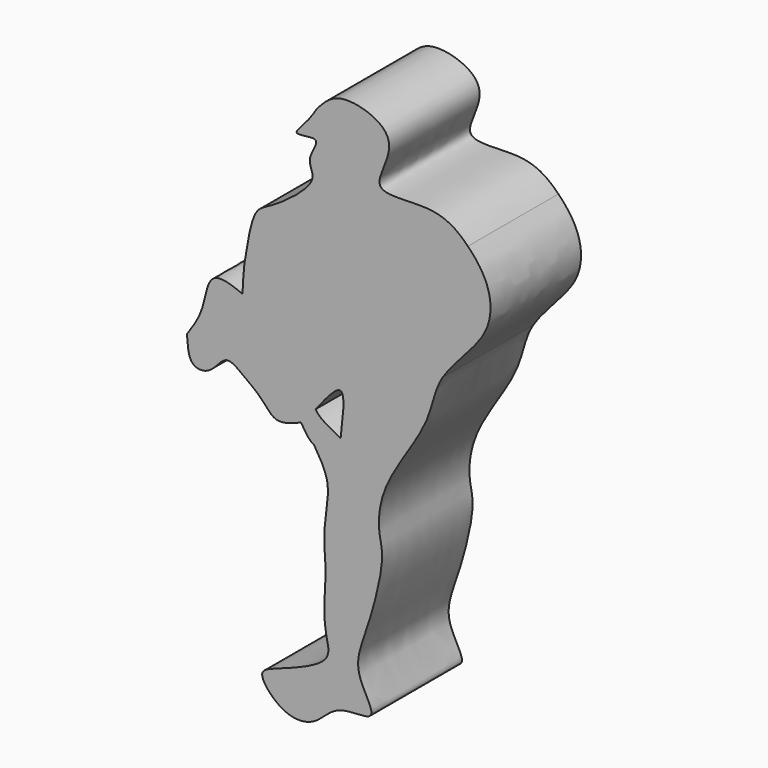
from build123d import *

# Parameters (mm, degrees)
F1_DEPTH = 25.4


with BuildPart() as f1:
    # F0 (on Front) → F1 (new body)
    with BuildSketch(Plane.XZ):
        with BuildLine():
            add(Edge.make_bspline(
                [(-21.5943008661, 18.1868094951), (-20.8921595485, 22.6245804916), (-19.7484215648, 29.8533920204), (-15.6107686745, 31.1393382396), (-4.0598308883, 39.4363882202), (-8.2724920031, 43.2125513241), (-3.3359732824, 49.1335900885), (-11.9154656231, 46.6039117455), (-7.2236898338, 50.7224706873), (-5.3444860453, 54.0504180989), (-5.3182533011, 54.0314875543)],
                knots=[0, 0, 0, 0, 0.1661583988, 0.2706601466, 0.4433434201, 0.5411518854, 0.64403377, 0.74461517, 0.8420787833, 0.9395424351, 0.9395424351, 0.9395424351, 0.9395424351], degree=3))
            add(Edge.make_bspline(
                [(-21.5943008661, 18.1868094951), (-21.7887766584, 16.0879769924), (-21.9832524506, 13.9891444898), (-22.0246174233, 12.0014088191)],
                knots=[0, 0, 0, 0, 0.0442586996, 0.0442586996, 0.0442586996, 0.0442586996], degree=3))
            add(Edge.make_bspline(
                [(-22.0247702216, 11.9940330325), (-22.0216686956, 11.9949592514), (-22.0230287683, 11.9981824964), (-22.0246174233, 12.0014088191)],
                knots=[0.9892202818, 0.9892202818, 0.9892202818, 0.9892202818, 1, 1, 1, 1], degree=3))
            add(Edge.make_bspline(
                [(-22.0247702216, 11.9940330325), (-22.0637401112, 10.104333795), (-21.7952577868, 5.282481514), (-18.0209239861, -0.465713744), (-11.6877187204, -4.4341367404), (-9.4351428248, -8.2359583026), (-8.8920048898, -9.140739238)],
                knots=[0.0443134462, 0.0443134462, 0.0443134462, 0.0443134462, 0.0863950998, 0.1577263962, 0.2361776325, 0.2625376278, 0.2625376278, 0.2625376278, 0.2625376278], degree=3))
            add(Edge.make_bspline(
                [(-8.8920048898, -9.140739238), (-7.9696887981, -10.6771703404), (-7.1148042536, -12.0654518015), (-5.9723341838, -12.6078510657)],
                knots=[0.2625376278, 0.2625376278, 0.2625376278, 0.2625376278, 0.3073001942, 0.3073001942, 0.3073001942, 0.3073001942], degree=3))
            add(Edge.make_bspline(
                [(-5.9723341838, -12.6078510657), (-4.6518660195, -14.7187344107), (-1.93390216, -19.0636363163), (-4.0218657937, -27.3670793967), (-3.5761120297, -33.4665675677), (-3.3449593466, -36.6295538843)],
                knots=[0, 0, 0, 0, 0.3126667483, 0.6435724426, 1, 1, 1, 1], degree=3))
            add(Edge.make_bspline(
                [(-3.3449593466, -36.6295538843), (-3.6234258022, -40.9974244261), (-4.0882821233, -48.288903129), (-1.0768782996, -54.995703646), (-14.4974787779, -59.4752137516), (-19.1993278846, -61.4589357888), (-12.9759338882, -68.5467833045), (-5.3375435137, -68.2208102672), (-1.1886213211, -61.7447349016), (9.8303718562, -63.6304540393), (2.2692705541, -54.1297463482), (6.0671064591, -45.5521296286), (10.2170723661, -29.9371614698), (8.2088184119, -25.0252247527), (9.0497087275, -14.5652093635), (20.5430611209, -0.3484723634), (20.8909463411, 6.8469782655), (22.8825435042, 10.09988226)],
                knots=[0, 0, 0, 0, 0.048510445, 0.0809806228, 0.1308881027, 0.1577450335, 0.1954004431, 0.2319819098, 0.2697152438, 0.3065428956, 0.3446455621, 0.388775104, 0.4440385777, 0.4756616114, 0.5190921943, 0.5782534756, 0.6242919527, 0.6242919527, 0.6242919527, 0.6242919527], degree=3))
            add(Edge.make_bspline(
                [(22.8825435042, 10.09988226), (20.2136983186, 9.7083980182), (15.4456200538, 9.0089840866), (14.7790673235, 14.5294635813), (18.5726736776, 27.6756548604), (21.9739509227, 32.1225541089), (27.396026687, 31.0575572705), (27.616860345, 29.0371589363)],
                knots=[0, 0, 0, 0, 0.1106821217, 0.1977413384, 0.3579995192, 0.4574979031, 0.5557643927, 0.5557643927, 0.5557643927, 0.5557643927], degree=3))
            add(Edge.make_bspline(
                [(27.616860345, 29.0371589363), (27.9324837029, 31.9829583168), (28.2481070608, 34.9287576973), (28.5637304187, 37.8745570779)],
                knots=[0, 0, 0, 0, 8.8879788957, 8.8879788957, 8.8879788957, 8.8879788957], degree=3))
            add(Edge.make_bspline(
                [(28.5637304187, 37.8745570779), (26.5077800503, 39.9683277592), (21.5319577998, 43.885794708), (5.6500360713, 40.6925232943), (11.5396034596, 50.0824768696), (10.4793174613, 56.1748022883), (-0.6136221709, 59.3047533259), (-3.8566434455, 55.6697578054), (-5.3182533011, 54.0314875543)],
                knots=[0.761111039, 0.761111039, 0.761111039, 0.761111039, 0.803905681, 0.8512385476, 0.8878280671, 0.9207386298, 0.9642773852, 1, 1, 1, 1], degree=3))
        make_face()
        with BuildLine():
            add(Edge.make_bspline(
                [(0, -9.3740245191), (0.5354356598, -4.9132551857), (1.5610688586, 3.631400062), (-3.3071347043, -2.5310765364), (-5.6338743307, -5.4764091037)],
                knots=[0, 0, 0, 0, 0.5220537522, 1, 1, 1, 1], degree=3))
            add(Edge.make_bspline(
                [(0, -9.3740245191), (-2.2385561501, -8.1837738071), (-4.4968651533, -7.1944959414), (-5.6338743307, -5.4764091037)],
                knots=[0.637456788, 0.637456788, 0.637456788, 0.637456788, 0.6957872773, 0.6957872773, 0.6957872773, 0.6957872773], degree=3))
        make_face(mode=Mode.SUBTRACT)
        with BuildLine():
            add(Edge.make_bspline(
                [(-22.0247702216, 11.9940330325), (-22.0216686956, 11.9949592514), (-22.0230287683, 11.9981824964), (-22.0246174233, 12.0014088191)],
                knots=[0.9892202818, 0.9892202818, 0.9892202818, 0.9892202818, 1, 1, 1, 1], degree=3))
            add(Edge.make_bspline(
                [(-22.0246174233, 12.0014088191), (-22.0246685904, 11.9989500535), (-22.0247195233, 11.9964914579), (-22.0247702216, 11.9940330325)],
                knots=[0.0442586996, 0.0442586996, 0.0442586996, 0.0442586996, 0.0443134462, 0.0443134462, 0.0443134462, 0.0443134462], degree=3))
        make_face()
        with BuildLine():
            add(Edge.make_bspline(
                [(22.8825435042, 10.09988226), (25.2529901942, 13.9715665791), (34.0849453625, 21.1046777211), (33.8615861626, 31.5117699449), (30.4644511068, 35.9388716103), (28.5637304187, 37.8745570779)],
                knots=[0.6242919527, 0.6242919527, 0.6242919527, 0.6242919527, 0.6790880517, 0.7215475054, 0.761111039, 0.761111039, 0.761111039, 0.761111039], degree=3))
            add(Edge.make_bspline(
                [(27.616860345, 29.0371589363), (27.9324837029, 31.9829583168), (28.2481070608, 34.9287576973), (28.5637304187, 37.8745570779)],
                knots=[0, 0, 0, 0, 8.8879788957, 8.8879788957, 8.8879788957, 8.8879788957], degree=3))
            add(Edge.make_bspline(
                [(22.8825435042, 10.09988226), (20.2136983186, 9.7083980182), (15.4456200538, 9.0089840866), (14.7790673235, 14.5294635813), (18.5726736776, 27.6756548604), (21.9739509227, 32.1225541089), (27.396026687, 31.0575572705), (27.616860345, 29.0371589363)],
                knots=[0, 0, 0, 0, 0.1106821217, 0.1977413384, 0.3579995192, 0.4574979031, 0.5557643927, 0.5557643927, 0.5557643927, 0.5557643927], degree=3))
        make_face()
        with BuildLine():
            add(Edge.make_bspline(
                [(-22.0247702216, 11.9940330325), (-22.0637401112, 10.104333795), (-21.7952577868, 5.282481514), (-18.0209239861, -0.465713744), (-11.6877187204, -4.4341367404), (-9.4351428248, -8.2359583026), (-8.8920048898, -9.140739238)],
                knots=[0.0443134462, 0.0443134462, 0.0443134462, 0.0443134462, 0.0863950998, 0.1577263962, 0.2361776325, 0.2625376278, 0.2625376278, 0.2625376278, 0.2625376278], degree=3))
            add(Edge.make_bspline(
                [(-34.4981066883, 0), (-33.1090538256, 1.9973948831), (-30.357043124, 5.955256703), (-29.799498727, 15.7751803138), (-22.1122005769, 11.9679234172), (-22.0247702216, 11.9940330325)],
                knots=[0, 0, 0, 0, 0.3462011359, 0.6853458062, 0.9892202818, 0.9892202818, 0.9892202818, 0.9892202818], degree=3))
            add(Edge.make_bspline(
                [(-34.4981066883, 0), (-34.3597425992, -2.2424607663), (-34.1097461246, -6.2941466694), (-28.9076222573, -6.2455829003), (-25.948363008, -0.858792056), (-21.7821387201, -4.1934143838), (-17.4850812983, -7.1811092958), (-14.7189516032, -11.4916782908), (-10.924502853, -9.9609079126), (-8.8920048898, -9.140739238)],
                knots=[0, 0, 0, 0, 0.1548761083, 0.279837051, 0.4244538317, 0.5559155602, 0.7106173293, 0.8450189695, 1, 1, 1, 1], degree=3))
        make_face()
    extrude(amount=-F1_DEPTH)


solid = f1.part
